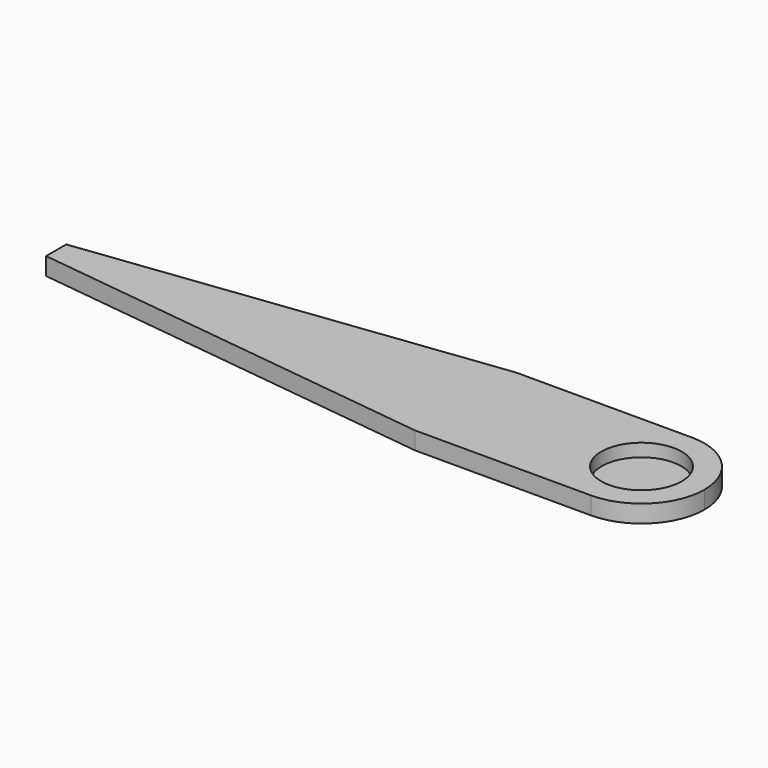
from build123d import *

# Parameters (mm, degrees)
F0_R     = 8
F1_DEPTH = 3.5
F2_R     = 7.890023
F3_DEPTH = 1


with BuildPart() as f1:
    # F0 (on Top) → F1 (new body)
    with BuildSketch(Plane.XY):
        with BuildLine():
            ThreePointArc((0, -12.5), (-12.5, 0), (0, 12.5))
            Line((0, 12.5), (-35, 12.5))
            Line((-35, 12.5), (-116.388784, 2.506714))
            Line((-116.388784, 2.506714), (-116.388784, -2.506714))
            Line((-116.388784, -2.506714), (-35, -12.5))
            Line((-35, -12.5), (0, -12.5))
        make_face()
        with BuildLine():
            ThreePointArc((0, -12.5), (8.838835, -8.838835), (12.5, 0))
            ThreePointArc((12.5, 0), (8.838835, 8.838835), (0, 12.5))
            ThreePointArc((0, 12.5), (-12.5, 0), (0, -12.5))
        make_face()
        Circle(F0_R, mode=Mode.SUBTRACT)
    extrude(amount=F1_DEPTH)


with BuildPart() as f3:
    # F2 (on Top) → F3 (new body)
    with BuildSketch(Plane.XY):
        Circle(F2_R)
    extrude(amount=F3_DEPTH)


solid = Compound([f1.part, f3.part])
